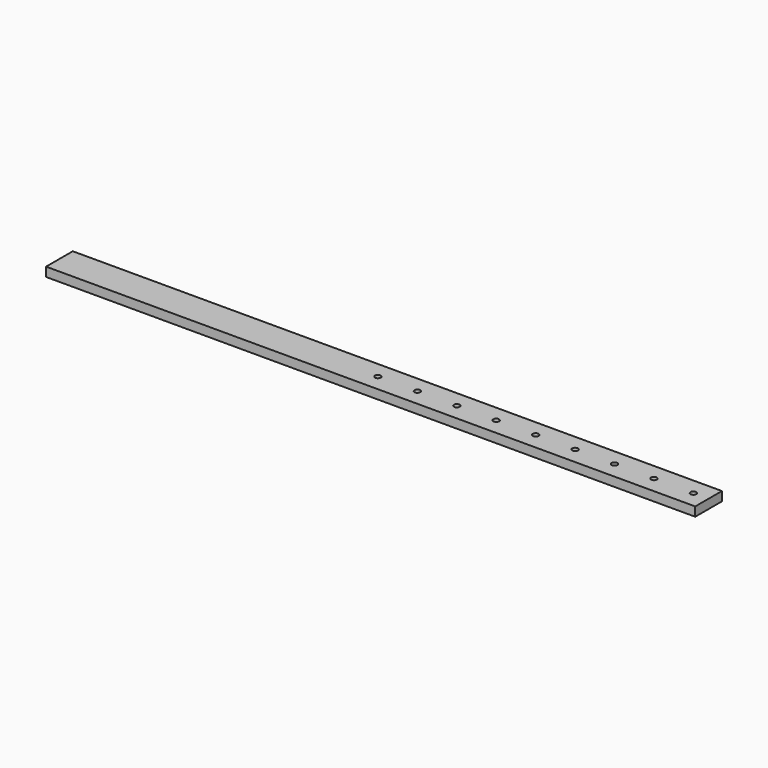
from build123d import *

# Parameters (mm, degrees)
SKETCH_W          = 2140
SKETCH_H          = 110
PAD_DEPTH         = 15
SKETCH001_R       = 9.5
POCKET_DEPTH      = 15.001
POCKET_DEPTH_BACK = -15.001


with BuildPart() as part:
    # Sketch → Pad (new body, symmetric)
    with BuildSketch(Plane.XY):
        Rectangle(SKETCH_W, SKETCH_H)
    extrude(amount=PAD_DEPTH, both=True)

    # Sketch001 → Pocket (cut, two sides)
    with BuildSketch(Plane.XY) as pocket_sk:
        with Locations((1020, 0)):
            Circle(SKETCH001_R)
        with Locations((890, 0)):
            Circle(SKETCH001_R)
        with Locations((760, 0)):
            Circle(SKETCH001_R)
        with Locations((630, 0)):
            Circle(SKETCH001_R)
        with Locations((500, 0)):
            Circle(SKETCH001_R)
        with Locations((370, 0)):
            Circle(SKETCH001_R)
        with Locations((240, 0)):
            Circle(SKETCH001_R)
        with Locations((110, 0)):
            Circle(SKETCH001_R)
        with Locations((-20, 0)):
            Circle(SKETCH001_R)
    extrude(amount=-POCKET_DEPTH, mode=Mode.SUBTRACT)
    extrude(pocket_sk.sketch, amount=-POCKET_DEPTH_BACK, mode=Mode.SUBTRACT)


solid = part.part
